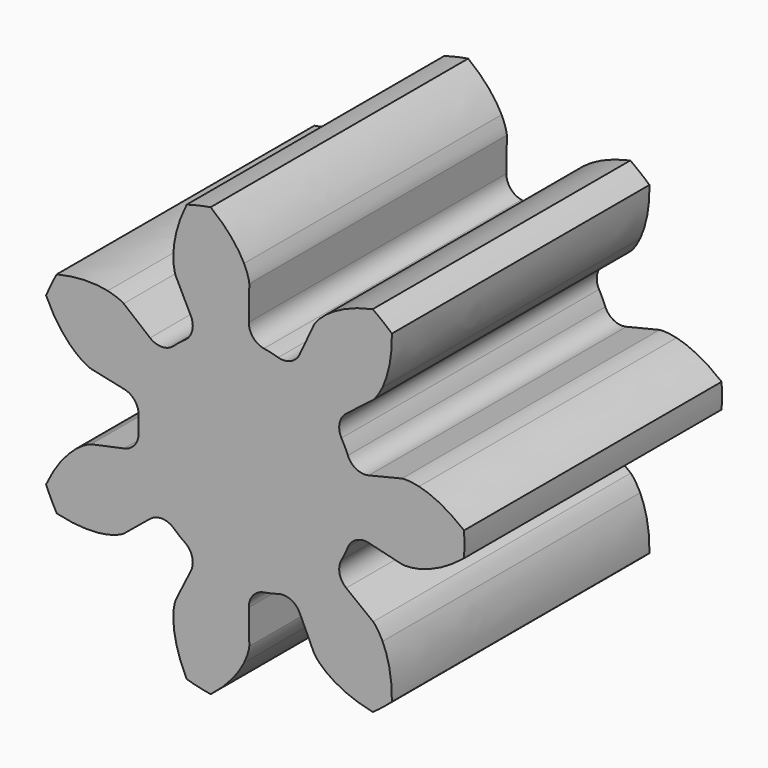
from build123d import *

# Parameters (mm, degrees)
PAD003_DEPTH = 10
POCKET_DEPTH = 10.001


with BuildPart() as obj1:
    # InvoluteGear001 → Pad003 (new body)
    with BuildSketch(Plane(origin=(16, 0, 0), x_dir=(1, 0, 0), z_dir=(0, -1, 0))):
        with BuildLine():
            Line((3.786059, -0.923719), (4.81556, -1.173313))
            add(Edge.make_bspline(
                [(4.81556, -1.173313), (4.873385, -1.181675), (5.046346, -1.195856), (5.34323, -1.127243)],
                knots=[0, 0, 0, 0, 1, 1, 1, 1], degree=3))
            add(Edge.make_bspline(
                [(5.34323, -1.127243), (5.693315, -1.042189), (6.183331, -0.841463), (6.742255, -0.380782)],
                knots=[0, 0, 0, 0, 1, 1, 1, 1], degree=3))
            ThreePointArc((6.742255, -0.380782), (6.753004, 0), (6.742255, 0.380782))
            add(Edge.make_bspline(
                [(6.742255, 0.380782), (6.183331, 0.841463), (5.693315, 1.042189), (5.34323, 1.127243)],
                knots=[0, 0, 0, 0, 1, 1, 1, 1], degree=3))
            add(Edge.make_bspline(
                [(5.34323, 1.127243), (5.046346, 1.195856), (4.873385, 1.181675), (4.81556, 1.173313)],
                knots=[0, 0, 0, 0, 1, 1, 1, 1], degree=3))
            Line((4.81556, 1.173313), (3.786059, 0.923719))
            ThreePointArc((3.786059, 0.923719), (3.397937, 0.968687), (3.132738, 1.25562))
            ThreePointArc((3.132738, 1.25562), (3.04077, 1.464358), (2.934913, 1.666407))
            ThreePointArc((2.934913, 1.666407), (2.875929, 2.052647), (3.082762, 2.384131))
            Line((3.082762, 2.384131), (3.919786, 3.033407))
            add(Edge.make_bspline(
                [(3.919786, 3.033407), (3.962376, 3.073404), (4.081304, 3.199788), (4.212764, 3.474681)],
                knots=[0, 0, 0, 0, 1, 1, 1, 1], degree=3))
            add(Edge.make_bspline(
                [(4.212764, 3.474681), (4.364539, 3.801419), (4.513126, 4.309679), (4.501435, 5.033894)],
                knots=[0, 0, 0, 0, 1, 1, 1, 1], degree=3))
            ThreePointArc((4.501435, 5.033894), (4.210429, 5.279711), (3.90602, 5.508721))
            add(Edge.make_bspline(
                [(3.90602, 5.508721), (3.197362, 5.358966), (2.734908, 5.101007), (2.450135, 4.88033)],
                knots=[0, 0, 0, 0, 1, 1, 1, 1], degree=3))
            add(Edge.make_bspline(
                [(2.450135, 4.88033), (2.211387, 4.690996), (2.114635, 4.546928), (2.085119, 4.496505)],
                knots=[0, 0, 0, 0, 1, 1, 1, 1], degree=3))
            Line((2.085119, 4.496505), (1.638377, 3.53599))
            ThreePointArc((1.638377, 3.53599), (1.361229, 3.260581), (0.971547, 3.232139))
            ThreePointArc((0.971547, 3.232139), (0.751008, 3.290382), (0.527039, 3.333595))
            ThreePointArc((0.527039, 3.333595), (0.188288, 3.528297), (0.058082, 3.896681))
            Line((0.058082, 3.896681), (0.072333, 4.95591))
            add(Edge.make_bspline(
                [(0.072333, 4.95591), (0.067617, 5.014146), (0.042956, 5.185927), (-0.09, 5.460099)],
                knots=[0, 0, 0, 0, 1, 1, 1, 1], degree=3))
            add(Edge.make_bspline(
                [(-0.09, 5.460099), (-0.250823, 5.78248), (-0.555555, 6.215545), (-1.129058, 6.657945)],
                knots=[0, 0, 0, 0, 1, 1, 1, 1], degree=3))
            ThreePointArc((-1.129058, 6.657945), (-1.502685, 6.583692), (-1.871528, 6.488481))
            add(Edge.make_bspline(
                [(-1.871528, 6.488481), (-2.196286, 5.841059), (-2.28294, 5.318663), (-2.287961, 4.958429)],
                knots=[0, 0, 0, 0, 1, 1, 1, 1], degree=3))
            add(Edge.make_bspline(
                [(-2.287961, 4.958429), (-2.288791, 4.65372), (-2.236478, 4.488252), (-2.215459, 4.433737)],
                knots=[0, 0, 0, 0, 1, 1, 1, 1], degree=3))
            Line((-2.215459, 4.433737), (-1.743037, 3.485588))
            ThreePointArc((-1.743037, 3.485588), (-1.700512, 3.09719), (-1.921238, 2.774792))
            ThreePointArc((-1.921238, 2.774792), (-2.104278, 2.638681), (-2.277706, 2.490518))
            ThreePointArc((-2.277706, 2.490518), (-2.641138, 2.347067), (-3.010335, 2.474951))
            Line((-3.010335, 2.474951), (-3.829588, 3.146512))
            add(Edge.make_bspline(
                [(-3.829588, 3.146512), (-3.878059, 3.179135), (-4.027738, 3.266957), (-4.324991, 3.333952)],
                knots=[0, 0, 0, 0, 1, 1, 1, 1], degree=3))
            add(Edge.make_bspline(
                [(-4.324991, 3.333952), (-4.677311, 3.409216), (-5.205892, 3.440979), (-5.909347, 3.268428)],
                knots=[0, 0, 0, 0, 1, 1, 1, 1], degree=3))
            ThreePointArc((-5.909347, 3.268428), (-6.084247, 2.930019), (-6.239777, 2.582282))
            add(Edge.make_bspline(
                [(-6.239777, 2.582282), (-5.936086, 1.924715), (-5.581688, 1.531257), (-5.303176, 1.30273)],
                knots=[0, 0, 0, 0, 1, 1, 1, 1], degree=3))
            add(Edge.make_bspline(
                [(-5.303176, 1.30273), (-5.065463, 1.112098), (-4.903478, 1.04983), (-4.847751, 1.032274)],
                knots=[0, 0, 0, 0, 1, 1, 1, 1], degree=3))
            Line((-4.847751, 1.032274), (-3.811908, 0.810467))
            ThreePointArc((-3.811908, 0.810467), (-3.481733, 0.601552), (-3.367292, 0.22797))
            ThreePointArc((-3.367292, 0.22797), (-3.375, 0), (-3.367292, -0.22797))
            ThreePointArc((-3.367292, -0.22797), (-3.481733, -0.601552), (-3.811908, -0.810467))
            Line((-3.811908, -0.810467), (-4.847751, -1.032274))
            add(Edge.make_bspline(
                [(-4.847751, -1.032274), (-4.903478, -1.04983), (-5.065463, -1.112098), (-5.303176, -1.30273)],
                knots=[0, 0, 0, 0, 1, 1, 1, 1], degree=3))
            add(Edge.make_bspline(
                [(-5.303176, -1.30273), (-5.581688, -1.531257), (-5.936086, -1.924715), (-6.239777, -2.582282)],
                knots=[0, 0, 0, 0, 1, 1, 1, 1], degree=3))
            ThreePointArc((-6.239777, -2.582282), (-6.084247, -2.930019), (-5.909347, -3.268428))
            add(Edge.make_bspline(
                [(-5.909347, -3.268428), (-5.205892, -3.440979), (-4.677311, -3.409216), (-4.324991, -3.333952)],
                knots=[0, 0, 0, 0, 1, 1, 1, 1], degree=3))
            add(Edge.make_bspline(
                [(-4.324991, -3.333952), (-4.027738, -3.266957), (-3.878059, -3.179135), (-3.829588, -3.146512)],
                knots=[0, 0, 0, 0, 1, 1, 1, 1], degree=3))
            Line((-3.829588, -3.146512), (-3.010335, -2.474951))
            ThreePointArc((-3.010335, -2.474951), (-2.641138, -2.347067), (-2.277706, -2.490518))
            ThreePointArc((-2.277706, -2.490518), (-2.104278, -2.638681), (-1.921238, -2.774792))
            ThreePointArc((-1.921238, -2.774792), (-1.700512, -3.09719), (-1.743037, -3.485588))
            Line((-1.743037, -3.485588), (-2.215459, -4.433737))
            add(Edge.make_bspline(
                [(-2.215459, -4.433737), (-2.236478, -4.488252), (-2.288791, -4.65372), (-2.287961, -4.958429)],
                knots=[0, 0, 0, 0, 1, 1, 1, 1], degree=3))
            add(Edge.make_bspline(
                [(-2.287961, -4.958429), (-2.28294, -5.318663), (-2.196286, -5.841059), (-1.871528, -6.488481)],
                knots=[0, 0, 0, 0, 1, 1, 1, 1], degree=3))
            ThreePointArc((-1.871528, -6.488481), (-1.502685, -6.583692), (-1.129058, -6.657945))
            add(Edge.make_bspline(
                [(-1.129058, -6.657945), (-0.555555, -6.215545), (-0.250823, -5.78248), (-0.09, -5.460099)],
                knots=[0, 0, 0, 0, 1, 1, 1, 1], degree=3))
            add(Edge.make_bspline(
                [(-0.09, -5.460099), (0.042956, -5.185927), (0.067617, -5.014146), (0.072333, -4.95591)],
                knots=[0, 0, 0, 0, 1, 1, 1, 1], degree=3))
            Line((0.072333, -4.95591), (0.058082, -3.896681))
            ThreePointArc((0.058082, -3.896681), (0.188288, -3.528297), (0.527039, -3.333595))
            ThreePointArc((0.527039, -3.333595), (0.751008, -3.290382), (0.971547, -3.232139))
            ThreePointArc((0.971547, -3.232139), (1.361229, -3.260581), (1.638377, -3.53599))
            Line((1.638377, -3.53599), (2.085119, -4.496505))
            add(Edge.make_bspline(
                [(2.085119, -4.496505), (2.114635, -4.546928), (2.211387, -4.690996), (2.450135, -4.88033)],
                knots=[0, 0, 0, 0, 1, 1, 1, 1], degree=3))
            add(Edge.make_bspline(
                [(2.450135, -4.88033), (2.734908, -5.101007), (3.197362, -5.358966), (3.90602, -5.508721)],
                knots=[0, 0, 0, 0, 1, 1, 1, 1], degree=3))
            ThreePointArc((3.90602, -5.508721), (4.210429, -5.279711), (4.501435, -5.033894))
            add(Edge.make_bspline(
                [(4.501435, -5.033894), (4.513126, -4.309679), (4.364539, -3.801419), (4.212764, -3.474681)],
                knots=[0, 0, 0, 0, 1, 1, 1, 1], degree=3))
            add(Edge.make_bspline(
                [(4.212764, -3.474681), (4.081304, -3.199788), (3.962376, -3.073404), (3.919786, -3.033407)],
                knots=[0, 0, 0, 0, 1, 1, 1, 1], degree=3))
            Line((3.919786, -3.033407), (3.082762, -2.384131))
            ThreePointArc((3.082762, -2.384131), (2.875929, -2.052647), (2.934913, -1.666407))
            ThreePointArc((2.934913, -1.666407), (3.04077, -1.464358), (3.132738, -1.25562))
            ThreePointArc((3.132738, -1.25562), (3.397937, -0.968687), (3.786059, -0.923719))
        make_face()
    extrude(amount=PAD003_DEPTH)


with BuildPart() as obj1_con_buco:
    # Pocket base: copy of obj1
    add(obj1.part)

    # Sketch012 → Pocket (cut, through all)
    with BuildSketch(Plane(origin=(16, -10, 0), x_dir=(1, 0, 0), z_dir=(0, -1, 0))):
        with BuildLine():
            ThreePointArc((1.075668, -1.045437), (0.009602, 1.50979), (-1.056464, -1.045437))
            Line((-1.056464, -1.045437), (1.075668, -1.045437))
        make_face()
    extrude(amount=-POCKET_DEPTH, mode=Mode.SUBTRACT)

    # Fusion004: union obj1
    add(obj1.part)


solid = obj1_con_buco.part
